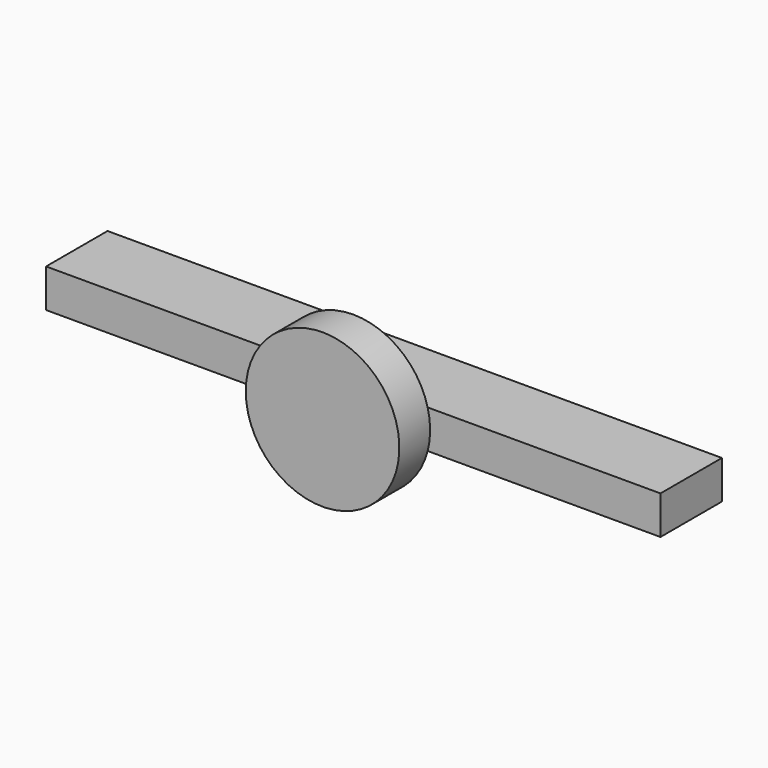
from build123d import *

# Parameters (mm, degrees)
F0_W     = 6.35
F0_H     = 3.175
F2_DEPTH = 1.5875


with BuildPart() as f1:
    # F0 (on Top) → F1 (revolve)
    with BuildSketch(Plane.XY):
        with Locations((-5.271797, 21.075728)):
            Rectangle(F0_W, F0_H)
    revolve(axis=Axis((-2.096797, 21.075728, 0), (0, -1, 0)))

    # F0 (on Top) → F2 (join, symmetric)
    with BuildSketch(Plane.XY):
        Polygon((-27.496797, 22.663228), (-8.446797, 22.663228), (-2.096797, 22.663228), (4.253203, 22.663228), (23.303203, 22.663228), (23.303203, 29.013228), (4.253203, 29.013228), (-2.096797, 29.013228), (-8.446797, 29.013228), (-11.621797, 29.013228), (-24.321797, 29.013228), (-27.496797, 29.013228), align=None)
    extrude(amount=F2_DEPTH, both=True)


solid = f1.part
